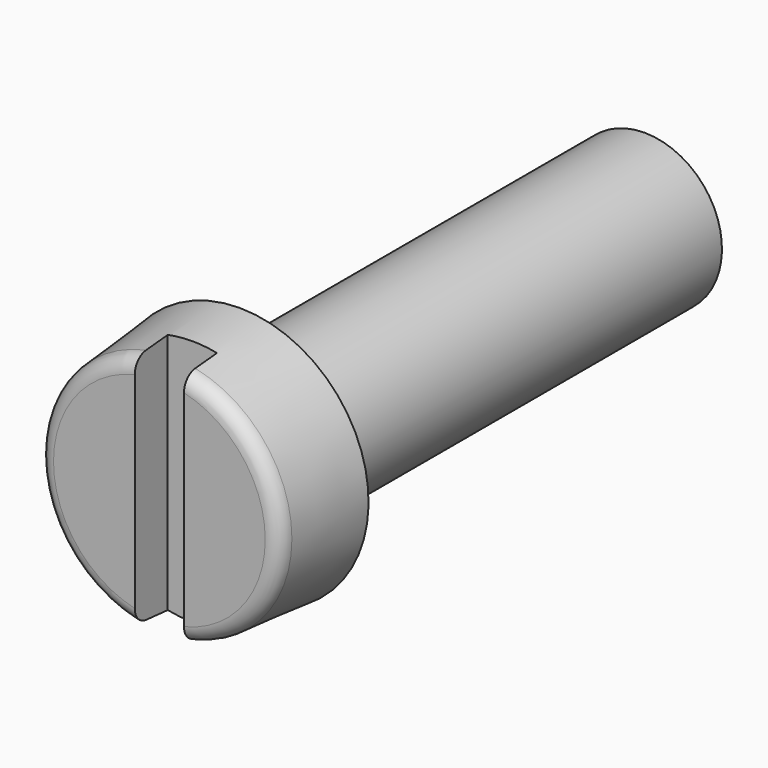
from build123d import *

# Parameters (mm, degrees)
SKETCH001_W  = 10
SKETCH001_H  = 1.91
POCKET_DEPTH = 1.6


with BuildPart() as part:
    # Sketch → Revolution (revolve)
    with BuildSketch(Plane.YZ):
        with BuildLine():
            Line((0, 4.108996), (0, 0))
            Line((0, 0), (23.9, 0))
            Line((23.9, 0), (23.9, 2.385))
            Line((23.9, 2.385), (23.54493, 3))
            Line((23.54493, 3), (3.9, 3))
            Line((3.9, 3), (3.9, 5))
            Line((3.9, 5), (0.547707, 4.706712))
            ThreePointArc((0.547707, 4.706712), (0.157634, 4.51435), (0, 4.108996))
        make_face()
    revolve(axis=Axis((0, 0, 0), (0, 1, 0)))

    # Sketch001 → Pocket (cut)
    with BuildSketch(Plane(origin=(0, 0, 0), x_dir=(0, 0, -1), z_dir=(0, -1, 0))):
        Rectangle(SKETCH001_W, SKETCH001_H)
    extrude(amount=-POCKET_DEPTH, mode=Mode.SUBTRACT)


solid = part.part
